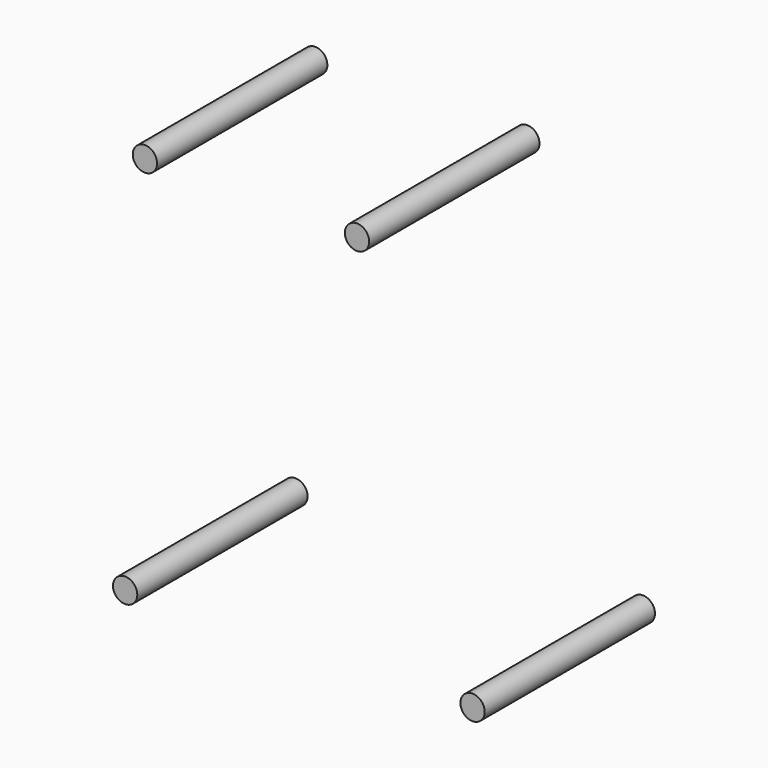
from build123d import *

# Parameters (mm, degrees)
CYLINDER017_R          = 1.6
CYLINDER017_DEPTH      = 28
CYLINDER017_ROLL_ANGLE = 90
CYLINDER014_R          = 1.6
CYLINDER014_DEPTH      = 28
CYLINDER014_ROLL_ANGLE = 90
CYLINDER016_R          = 1.6
CYLINDER016_DEPTH      = 28
CYLINDER016_ROLL_ANGLE = 90
CYLINDER015_R          = 1.6
CYLINDER015_DEPTH      = 28
CYLINDER015_ROLL_ANGLE = 90


with BuildPart() as cylinder017:
    # Cylinder017 → Cylinder017 (new body)
    with BuildSketch(Plane.XY):
        Circle(CYLINDER017_R)
    extrude(amount=CYLINDER017_DEPTH)


with BuildPart() as cylinder017_1:
    # Cylinder017 roll: moved
    add(cylinder017.part.rotate(Axis((0, 0, 0), (1, 0, 0)), CYLINDER017_ROLL_ANGLE))


with BuildPart() as cylinder017_2:
    # Cylinder017 placement: moved
    add(cylinder017_1.part.moved(Location((25.5, 0, -59.8))))


with BuildPart() as fusion052:
    # Cylinder014 → Cylinder014 (new body)
    with BuildSketch(Plane.XY):
        Circle(CYLINDER014_R)
    extrude(amount=CYLINDER014_DEPTH)


with BuildPart() as fusion052_1:
    # Cylinder014 roll: moved
    add(fusion052.part.rotate(Axis((0, 0, 0), (1, 0, 0)), CYLINDER014_ROLL_ANGLE))


with BuildPart() as fusion052_2:
    # Cylinder014 placement: moved
    add(fusion052_1.part.moved(Location((40.7, 0, -10.3))))

    # Fusion052: union Cylinder017
    add(cylinder017_2.part)


with BuildPart() as cylinder016:
    # Cylinder016 → Cylinder016 (new body)
    with BuildSketch(Plane.XY):
        Circle(CYLINDER016_R)
    extrude(amount=CYLINDER016_DEPTH)


with BuildPart() as cylinder016_1:
    # Cylinder016 roll: moved
    add(cylinder016.part.rotate(Axis((0, 0, 0), (1, 0, 0)), CYLINDER016_ROLL_ANGLE))


with BuildPart() as cylinder016_2:
    # Cylinder016 placement: moved
    add(cylinder016_1.part.moved(Location((-5, 0, -9))))


with BuildPart() as screw_holes_on_arduino_duo:
    # Cylinder015 → Cylinder015 (new body)
    with BuildSketch(Plane.XY):
        Circle(CYLINDER015_R)
    extrude(amount=CYLINDER015_DEPTH)


with BuildPart() as screw_holes_on_arduino_duo_1:
    # Cylinder015 roll: moved
    add(screw_holes_on_arduino_duo.part.rotate(Axis((0, 0, 0), (1, 0, 0)), CYLINDER015_ROLL_ANGLE))


with BuildPart() as screw_holes_on_arduino_duo_2:
    # Cylinder015 placement: moved
    add(screw_holes_on_arduino_duo_1.part.moved(Location((-2.4, 0, -59.8))))

    # Fusion051: union Cylinder016
    add(cylinder016_2.part)

    # Fusion053: union Fusion052
    add(fusion052_2.part)


with BuildPart() as part_mirroring:
    # Part__Mirroring: instance of Screw holes on Arduino Duo
    add(screw_holes_on_arduino_duo_2.part.mirror(Plane(origin=(0, 0, 0), x_dir=(0, 1, 0), z_dir=(0, 0, 1))))


with BuildPart() as part_mirroring_1:
    # Part__Mirroring placement: moved
    add(part_mirroring.part.moved(Location((-204, 10, -67))))


solid = part_mirroring_1.part
